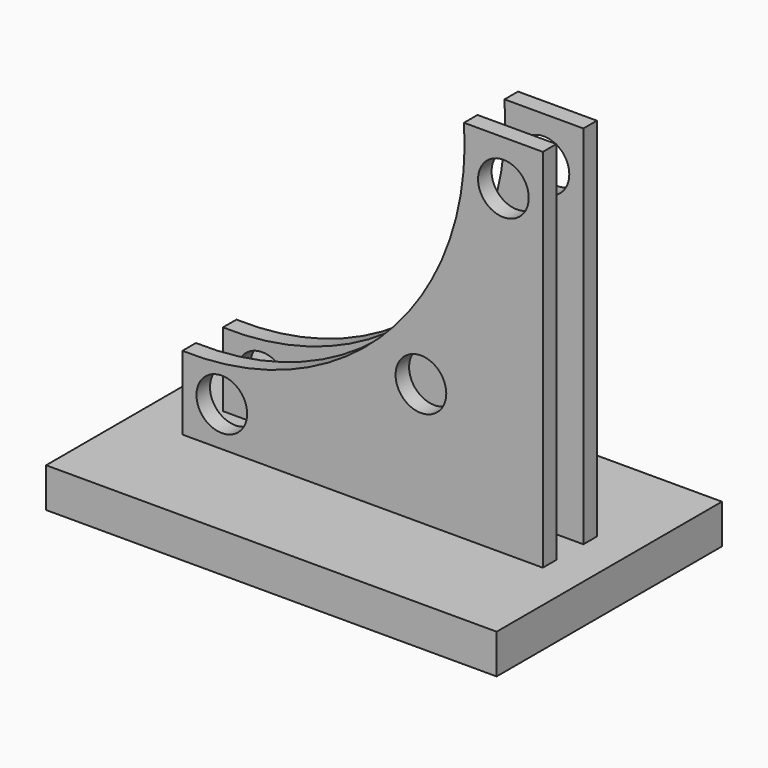
from build123d import *

# Parameters (mm, degrees)
F0_W          = 320
F0_H          = 60
F1_DEPTH      = 360
F2_R          = 22.5
F3_DEPTH      = 60
F5_DEPTH      = 30
F5_DEPTH_BACK = 30
F6_W          = 30
F6_H          = 360
F7_DEPTH      = 160
F7_DEPTH_BACK = 160
F8_W          = 400
F8_H          = 250
F8_W_2        = 320
F8_H_2        = 15
F9_DEPTH      = 35


with BuildPart() as f1:
    # F0 (on Top) → F1 (new body)
    with BuildSketch(Plane.XY):
        Rectangle(F0_W, F0_H)
    extrude(amount=F1_DEPTH)

    # F2 (on face) → F3 (cut, through all)
    with BuildSketch(Plane.XZ.offset(30)):
        with Locations((125, 320)):
            Circle(F2_R)
        with Locations((-125, 70)):
            Circle(F2_R)
        with Locations((51.78, 143.22)):
            Circle(F2_R)
    extrude(amount=-F3_DEPTH, mode=Mode.SUBTRACT)

    # F4 (on Front) → F5 (cut, two sides)
    with BuildSketch(Plane.XZ) as f5_sk:
        with BuildLine():
            Line((-160, 360), (-160, 100.4754627342))
            ThreePointArc((-160, 100.4754627342), (22.4789982631, 174.8682094052), (90, 360))
            Line((90, 360), (-160, 360))
        make_face()
    extrude(amount=F5_DEPTH, mode=Mode.SUBTRACT)
    extrude(f5_sk.sketch, amount=-F5_DEPTH_BACK, mode=Mode.SUBTRACT)

    # F6 (on Right) → F7 (cut, two sides)
    with BuildSketch(Plane.YZ) as f7_sk:
        with Locations((0, 180)):
            Rectangle(F6_W, F6_H)
    extrude(amount=-F7_DEPTH, mode=Mode.SUBTRACT)
    extrude(f7_sk.sketch, amount=F7_DEPTH_BACK, mode=Mode.SUBTRACT)

    # F8 (on face) → F9 (join)
    with BuildSketch(Plane(origin=(0, 0, 0), x_dir=(1, 0, 0), z_dir=(0, 0, -1))):
        with Locations((-5, 0)):
            Rectangle(F8_W, F8_H)
        with Locations((0, 22.5)):
            Rectangle(F8_W_2, F8_H_2, mode=Mode.SUBTRACT)
    extrude(amount=-F9_DEPTH)


solid = f1.part
